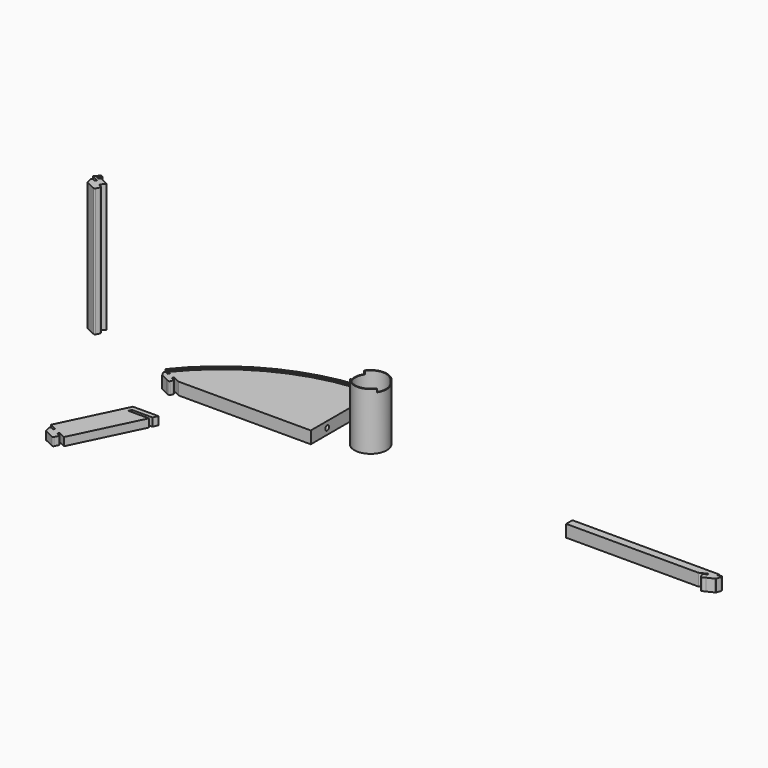
from build123d import *

# Parameters (mm, degrees)
PAD_DEPTH            = 15
POCKET_DEPTH         = 10
SKETCH004_R          = 3
POCKET003_DEPTH      = 5
POCKET008_DEPTH      = 15.001
FILLET_R             = 0.5
BODY_PLACEMENT_ANGLE = 180
PAD001_DEPTH         = 158
PAD005_DEPTH         = 10
PAD006_DEPTH         = 15
POCKET006_DEPTH      = 10
SKETCH014_R          = 3
POCKET007_DEPTH      = 5
SKETCH007_R          = 20
SKETCH007_R_2        = 19
PAD003_DEPTH         = 70
SKETCH008_W          = 89.879714
SKETCH008_H          = 22
POCKET004_DEPTH      = 4


with BuildPart() as body:
    # Sketch → Pad (new body)
    with BuildSketch(Plane.XY):
        with BuildLine():
            Line((-162.5, -12), (0, -12))
            Line((0, 91.310835), (0, -12))
            ThreePointArc((0, 91.310835), (-104.690438, 67.418563), (-188.65, 0.47291))
            Line((-188.65, 0.47291), (-179.86228, -3.718617))
            Line((-180.551098, -5.162754), (-179.86228, -3.718617))
            Line((-180.551098, -5.162754), (-183.529629, -3.742067))
            ThreePointArc((-183.529629, -3.742067), (-185.061936, -3.958853), (-185.458358, -5.454784))
            Line((-185.458358, -5.454784), (-183.478573, -11.300334))
            Line((-183.478573, -11.300334), (-182.437089, -11.797096))
            Line((-174.728242, -15.474027), (-182.437089, -11.797096))
            Line((-171.293672, -17.112233), (-174.728242, -15.474027))
            ThreePointArc((-171.293672, -17.112233), (-170.223627, -17.168312), (-169.427337, -16.45133))
            Line((-167.705293, -12.840988), (-169.427337, -16.45133))
            ThreePointArc((-167.705293, -12.840988), (-167.649214, -11.770943), (-168.366197, -10.974653))
            Line((-171.976538, -9.252609), (-168.366197, -10.974653))
            Line((-171.28772, -7.808473), (-171.976538, -9.252609))
            Line((-162.5, -12), (-171.28772, -7.808473))
        make_face()
    extrude(amount=PAD_DEPTH)

    # Sketch001 (on Face19 of Pad) → Pocket (cut)
    with BuildSketch(Plane.XY):
        with BuildLine():
            ThreePointArc((0, 85), (-101.490792, 61.954286), (-183.075815, -2.662815))
            Line((-185.857521, -1.33601), (-183.075815, -2.662815))
            ThreePointArc((0, 88), (-103.106669, 64.506445), (-185.857521, -1.33601))
            Line((0, 88), (0, 85))
        make_face()
    extrude(amount=POCKET_DEPTH, mode=Mode.SUBTRACT)

    # Sketch004 → Pocket003 (cut)
    with BuildSketch(Plane.YZ):
        with Locations((13.239698, 7.5)):
            Circle(SKETCH004_R)
        with Locations((69.951302, 7.5)):
            Circle(SKETCH004_R)
    extrude(amount=-POCKET003_DEPTH, mode=Mode.SUBTRACT)

    # Sketch017 (on Face4 of Pocket003) → Pocket008 (cut, through all)
    with BuildSketch(Plane(origin=(0, 0, 0), x_dir=(1, 0, 0), z_dir=(0, 0, -1))):
        with BuildLine():
            Line((-182.798043, 2.31833), (0, 2.31833))
            Line((0, 2.31833), (0, -85))
            Line((0, -85), (0, -88))
            Line((0, -88), (0, -91.310835))
            ThreePointArc((0, -91.310835), (-104.690438, -67.418563), (-188.65, -0.47291))
            Line((-188.65, -0.47291), (-185.580978, 0.990938))
            Line((-185.580978, 0.990938), (-182.798043, 2.31833))
        make_face()
    extrude(amount=-POCKET008_DEPTH, mode=Mode.SUBTRACT)

    # Fillet
    fillet_edges = [body.edges().sort_by_distance(p)[0] for p in [
        (-182.798043, -2.31833, 7.5),
    ]]
    fillet(fillet_edges, radius=FILLET_R)


with BuildPart() as body_1:
    # Body placement: moved
    add(body.part.moved(Location((314, 0, 0))).rotate(Axis((314, 0, 0), (0, -1, 0)), BODY_PLACEMENT_ANGLE))


with BuildPart() as body001:
    # Sketch005 → Pad001 (new body)
    with BuildSketch(Plane.XY):
        with BuildLine():
            Line((-181.380762, -6.272526), (-180.356266, -3.992085))
            Line((-180.356266, -3.992085), (-188.671529, -0.034084))
            Line((-188.671529, -0.034084), (-183.44889, 6.343445))
            Line((-183.44889, 6.343445), (-180.675517, 5.099585))
            Line((-180.675517, 5.099585), (-184.098177, 0.920067))
            Line((-184.098177, 0.920067), (-181.262945, -0.461492))
            Line((-179.76165, 1.371787), (-181.262945, -0.461492))
            Line((-168.596832, -4.154482), (-179.76165, 1.371787))
            Line((-171.789882, -8.053615), (-168.596832, -4.154482))
            Line((-171.789882, -8.053615), (-172.814377, -10.334056))
            Line((-169.065632, -12.115248), (-172.814377, -10.334056))
            ThreePointArc((-168.64313, -14.27583), (-168.382314, -13.103226), (-169.065632, -12.115248))
            Line((-170.753788, -18.332822), (-168.64313, -14.27583))
            ThreePointArc((-172.635155, -18.78029), (-171.612736, -18.90021), (-170.753788, -18.332822))
            Line((-184.663158, -13.065262), (-172.635155, -18.78029))
            Line((-186.461502, -6.262268), (-184.663158, -13.065262))
            ThreePointArc((-184.199729, -4.933112), (-185.721943, -4.931783), (-186.461502, -6.262268))
            Line((-181.380762, -6.272526), (-184.199729, -4.933112))
        make_face()
    extrude(amount=PAD001_DEPTH)


with BuildPart() as body001_1:
    # Body001 placement: moved
    add(body001.part.moved(Location((-89, 0, 21))))


with BuildPart() as body005:
    # Sketch010 → Pad005 (new body)
    with BuildSketch(Plane.XY):
        with BuildLine():
            Line((-181.582494, -5.313779), (-180.491506, -3.064392))
            Line((-180.491506, -3.064392), (-189.03918, 1.081362))
            Line((-189.03918, 1.081362), (-151.0261, 79.456346))
            Line((-119.608686, 79.456346), (-151.0261, 79.456346))
            Line((-122.449579, 73.59902), (-119.608686, 79.456346))
            Line((-147.625201, 73.59902), (-122.449579, 73.59902))
            Line((-149.370782, 70), (-147.625201, 73.59902))
            Line((-123.938699, 70), (-149.370782, 70))
            Line((-163.32954, -11.215637), (-123.938699, 70))
            Line((-171.877214, -7.069883), (-163.32954, -11.215637))
            Line((-171.877214, -7.069883), (-172.968201, -9.319271))
            Line((-172.968201, -9.319271), (-169.369181, -11.064852))
            ThreePointArc((-168.766813, -12.801847), (-168.708253, -11.808595), (-169.369181, -11.064852))
            Line((-168.766813, -12.801847), (-170.905149, -17.210647))
            ThreePointArc((-172.642145, -17.813015), (-171.648892, -17.871575), (-170.905149, -17.210647))
            Line((-172.642145, -17.813015), (-184.720127, -11.955007))
            Line((-184.720127, -11.955007), (-186.37969, -5.360626))
            ThreePointArc((-184.551686, -3.873675), (-185.939334, -4.034867), (-186.37969, -5.360626))
            Line((-184.551686, -3.873675), (-181.582494, -5.313779))
        make_face()
    extrude(amount=PAD005_DEPTH)


with BuildPart() as body005_1:
    # Body005 placement: moved
    add(body005.part.moved(Location((0, -176, 0))))


with BuildPart() as body006:
    # Sketch012 → Pad006 (new body)
    with BuildSketch(Plane.XY):
        with BuildLine():
            Line((-162.5, -12), (0, -12))
            Line((0, 91.310835), (0, -12))
            ThreePointArc((0, 91.310835), (-104.690438, 67.418563), (-188.65, 0.47291))
            Line((-188.65, 0.47291), (-179.86228, -3.718617))
            Line((-180.938558, -5.97508), (-179.86228, -3.718617))
            Line((-180.938558, -5.97508), (-183.917089, -4.554394))
            ThreePointArc((-183.917089, -4.554394), (-185.515066, -4.833404), (-185.776865, -6.434291))
            Line((-185.776865, -6.434291), (-183.435522, -11.210075))
            Line((-183.435522, -11.210075), (-182.608829, -11.604388))
            Line((-174.728005, -15.363348), (-182.608829, -11.604388))
            Line((-171.250621, -17.021975), (-174.728005, -15.363348))
            ThreePointArc((-171.250621, -17.021975), (-170.180576, -17.078054), (-169.384286, -16.361071))
            Line((-168.092753, -13.653315), (-169.384286, -16.361071))
            ThreePointArc((-168.092753, -13.653315), (-168.036674, -12.58327), (-168.753657, -11.78698))
            Line((-172.363998, -10.064936), (-168.753657, -11.78698))
            Line((-171.28772, -7.808473), (-172.363998, -10.064936))
            Line((-162.5, -12), (-171.28772, -7.808473))
        make_face()
    extrude(amount=PAD006_DEPTH)

    # Sketch013 (on Face19 of Pad006) → Pocket006 (cut)
    with BuildSketch(Plane.XY.offset(15)):
        with BuildLine():
            ThreePointArc((0, 85), (-101.490792, 61.954286), (-183.075815, -2.662815))
            Line((-185.857521, -1.33601), (-183.075815, -2.662815))
            ThreePointArc((0, 88), (-103.106669, 64.506445), (-185.857521, -1.33601))
            Line((0, 88), (0, 85))
        make_face()
    extrude(amount=-POCKET006_DEPTH, mode=Mode.SUBTRACT)

    # Sketch014 → Pocket007 (cut)
    with BuildSketch(Plane.YZ):
        with Locations((13.239698, 7.5)):
            Circle(SKETCH014_R)
        with Locations((69.951302, 7.5)):
            Circle(SKETCH014_R)
    extrude(amount=-POCKET007_DEPTH, mode=Mode.SUBTRACT)


with BuildPart() as body006_1:
    # Body006 placement: moved
    add(body006.part.moved(Location((0, 0, -16))))


with BuildPart() as body003:
    # Sketch007 → Pad003 (new body)
    with BuildSketch(Plane.XY):
        Circle(SKETCH007_R)
        Circle(SKETCH007_R_2, mode=Mode.SUBTRACT)
    extrude(amount=PAD003_DEPTH)

    # Sketch008 (on Face4 of Pad003) → Pocket004 (cut)
    with BuildSketch(Plane.XY.offset(70)):
        Rectangle(SKETCH008_W, SKETCH008_H)
    extrude(amount=-POCKET004_DEPTH, mode=Mode.SUBTRACT)


with BuildPart() as body003_1:
    # Body003 placement: moved
    add(body003.part.moved(Location((64, 0, 0))))


solid = Compound([body_1.part, body001_1.part, body005_1.part, body006_1.part, body003_1.part])
